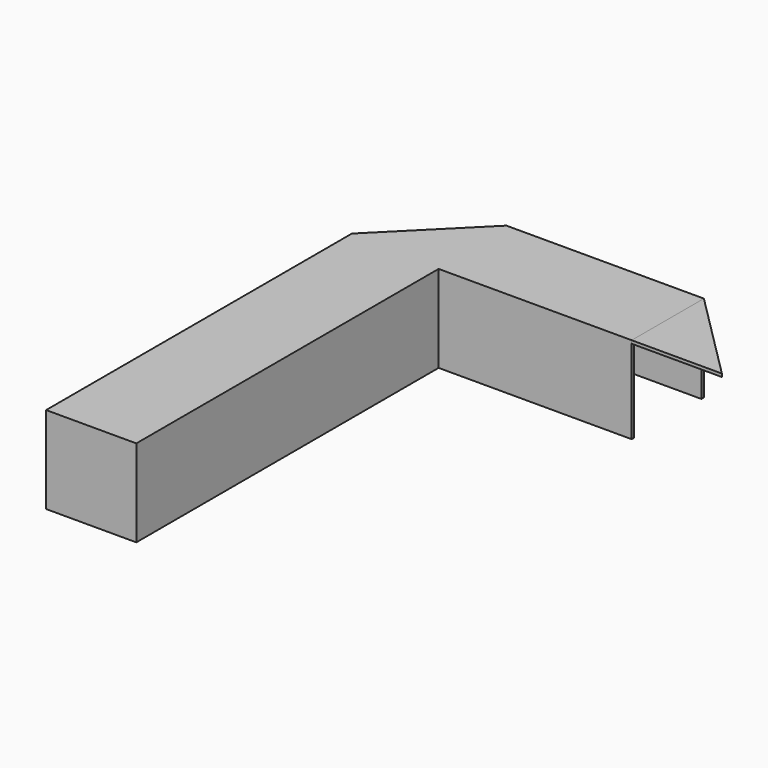
from build123d import *

# Parameters (mm, degrees)
F2_W      = 4
F2_H      = 4
F2_R      = 1
F3_DEPTH  = 1
F4_DEPTH  = 27.3
F5_W      = 4
F5_H      = 4
F5_R      = 1.25
F6_DEPTH  = 27.3
F7_W      = 1
F7_H      = 27.3
F8_DEPTH  = 27.3
F10_DEPTH = 1


with BuildPart() as f3:
    # F2 (on Top) → F3 (new body)
    with BuildSketch(Plane.XY):
        Polygon((33.9513780442, 94.3132289106), (-30.1628355182, 94.3132289106), (-58.0486219558, 66.427442473), (-58.0486219558, -57.6867710894), (-28.7486219558, -57.6867710894), (-28.7486219558, 65.0132289106), (33.9513780442, 65.0132289106), align=None)
        Polygon((-53.0486219558, -56.6867710894), (-57.0486219558, -56.6867710894), (-57.0486219558, -52.6867710894), (-57.0486219558, 66.0132289106), (-29.7486219558, 93.3132289106), (32.9513780442, 93.3132289106), (32.9513780442, 66.0132289106), (-29.7486219558, 66.0132289106), (-29.7486219558, -52.6867710894), (-29.7486219558, -56.6867710894), (-33.7486219558, -56.6867710894), align=None, mode=Mode.SUBTRACT)
        Polygon((-53.0486219558, -52.6867710894), (-53.0486219558, -56.6867710894), (-33.7486219558, -56.6867710894), (-33.7486219558, -52.6867710894), (-29.7486219558, -52.6867710894), (-29.7486219558, 66.0132289106), (32.9513780442, 66.0132289106), (32.9513780442, 93.3132289106), (-29.7486219558, 93.3132289106), (-57.0486219558, 66.0132289106), (-57.0486219558, -52.6867710894), align=None)
        with Locations((-31.7486219558, -54.6867710894)):
            Rectangle(F2_W, F2_H)
        with Locations((-31.7486219558, -54.6867710894)):
            Circle(F2_R, mode=Mode.SUBTRACT)
        with Locations((-55.0486219558, -54.6867710894)):
            Rectangle(F2_W, F2_H)
        with Locations((-55.0486219558, -54.6867710894)):
            Circle(F2_R, mode=Mode.SUBTRACT)
        with Locations((-31.7486219558, -54.6867710894)):
            Circle(F2_R)
        with Locations((-55.0486219558, -54.6867710894)):
            Circle(F2_R)
    extrude(amount=F3_DEPTH)

    # F2 (on Top) → F4 (join)
    with BuildSketch(Plane.XY):
        Polygon((33.9513780442, 94.3132289106), (-30.1628355182, 94.3132289106), (-58.0486219558, 66.427442473), (-58.0486219558, -57.6867710894), (-28.7486219558, -57.6867710894), (-28.7486219558, 65.0132289106), (33.9513780442, 65.0132289106), align=None)
        Polygon((-53.0486219558, -56.6867710894), (-57.0486219558, -56.6867710894), (-57.0486219558, -52.6867710894), (-57.0486219558, 66.0132289106), (-29.7486219558, 93.3132289106), (32.9513780442, 93.3132289106), (32.9513780442, 66.0132289106), (-29.7486219558, 66.0132289106), (-29.7486219558, -52.6867710894), (-29.7486219558, -56.6867710894), (-33.7486219558, -56.6867710894), align=None, mode=Mode.SUBTRACT)
    extrude(amount=-F4_DEPTH)

    # F5 (on face) → F6 (join)
    with BuildSketch(Plane(origin=(0, 0, 0), x_dir=(1, 0, 0), z_dir=(0, 0, -1))):
        with Locations((-55.0486219558, 54.6867710894)):
            Rectangle(F5_W, F5_H)
        with Locations((-55.0486219558, 54.6867710894)):
            Circle(F5_R, mode=Mode.SUBTRACT)
        with Locations((-31.7486219558, 54.6867710894)):
            Rectangle(F5_W, F5_H)
        with Locations((-31.7486219558, 54.6867710894)):
            Circle(F5_R, mode=Mode.SUBTRACT)
    extrude(amount=F6_DEPTH)

    # F7 (on face) → F8 (cut, through all)
    with BuildSketch(Plane(origin=(0, 0, -27.3), x_dir=(1, 0, 0), z_dir=(0, 0, -1))):
        with Locations((33.4513780442, -79.6632289106)):
            Rectangle(F7_W, F7_H)
    extrude(amount=-F8_DEPTH, mode=Mode.SUBTRACT)


with BuildPart() as f10:
    # F9 (on face) → F10 (new body)
    with BuildSketch(Plane.XY.offset(1)):
        Polygon((63.2513780442, 65.0132289106), (33.9513780442, 94.3132289106), (33.9513780442, 65.0132289106), align=None)
    extrude(amount=-F10_DEPTH)


solid = Compound([f3.part, f10.part])
